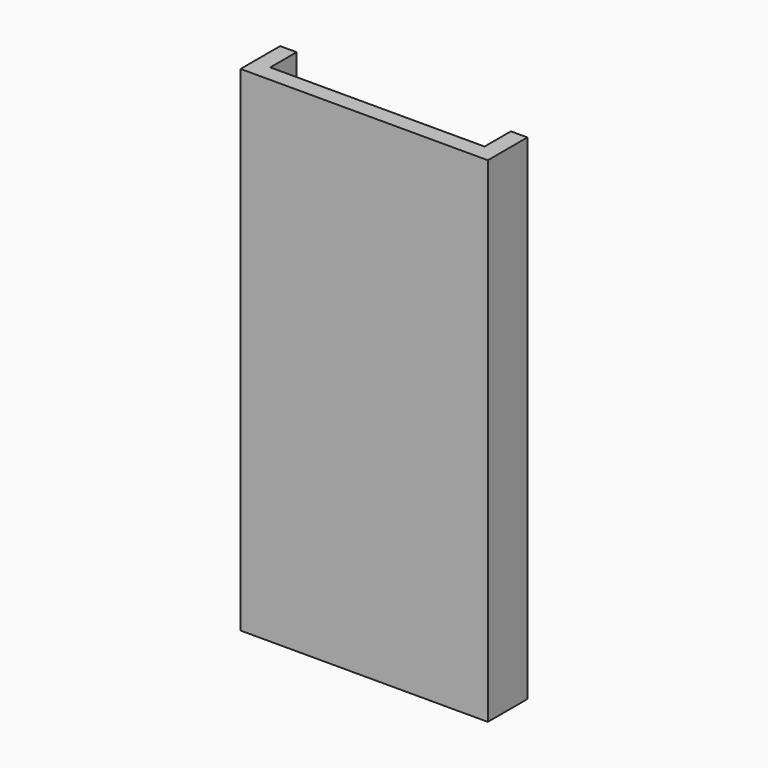
from build123d import *

# Parameters (mm, degrees)
PAD_DEPTH = 30


with BuildPart() as part:
    # Sketch → Pad (new body)
    with BuildSketch(Plane.XY):
        Polygon((0, 3), (0, 0), (15, 0), (15, 3), (14, 3), (14, 1), (1, 1), (1, 3), align=None)
    extrude(amount=PAD_DEPTH)


solid = part.part
